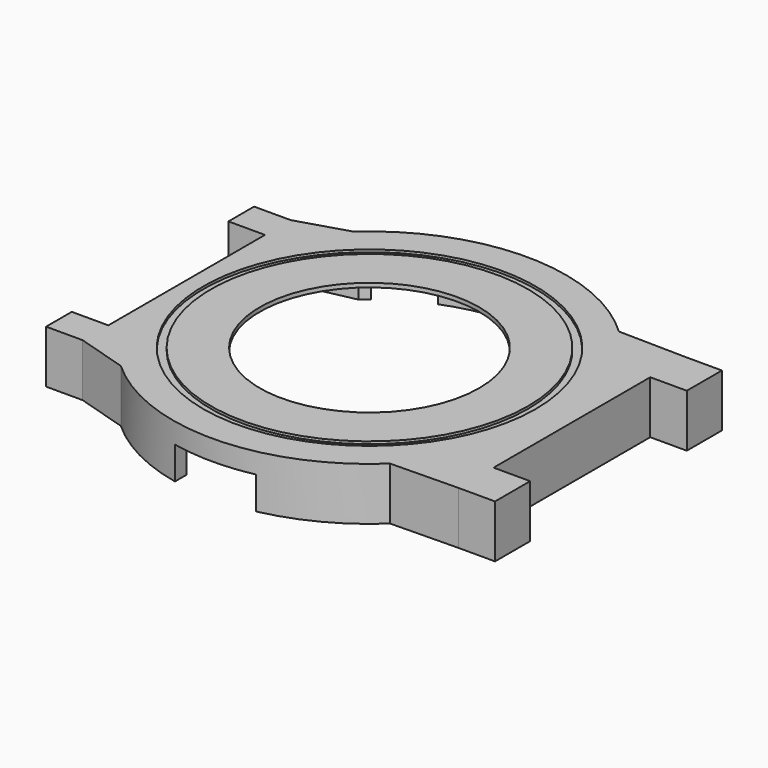
from build123d import *

# Parameters (mm, degrees)
PAD_DEPTH       = 6.5
POCKET_DEPTH    = 6
SKETCH002_R     = 13.5
POCKET001_DEPTH = 1
SKETCH003_W     = 5.4
SKETCH003_H     = 6.5
PAD001_DEPTH    = 4.5
SKETCH010_W     = 3.95
SKETCH010_H     = 6.5
PAD002_DEPTH    = 4.5
SKETCH014_R     = 20.45
SKETCH014_R_2   = 19.5
POCKET008_DEPTH = 0.3
SKETCH015_R     = 2.2
SKETCH015_R_2   = 0.975
PAD003_DEPTH    = 2
POCKET009_DEPTH = 4
POCKET010_DEPTH = 4


with BuildPart() as part:
    # Sketch → Pad (new body)
    with BuildSketch(Plane.XY):
        with BuildLine():
            Line((-22.5019915649, 16), (-22.5019915649, -16))
            Line((-22.5019915649, -16), (-16.2858834577, -17.9000000001))
            ThreePointArc((-16.2858834577, -17.9000000001), (0.2206895737, -24.1989937004), (16.6096357576, -17.5999999999))
            Line((16.6096357576, -17.5999999999), (24.9082802252, -17.45))
            Line((24.9082802252, 17.45), (24.9082802252, -17.45))
            Line((16.6096357576, 17.6), (24.9082802252, 17.45))
            ThreePointArc((16.6096357576, 17.6), (0.2206895736, 24.1989937004), (-16.2858834578, 17.9))
            Line((-22.5019915649, 16), (-16.2858834578, 17.9))
        make_face()
    extrude(amount=PAD_DEPTH)

    # Sketch001 → Pocket (cut)
    with BuildSketch(Plane.XY):
        with BuildLine():
            Line((-14.8539557021, 16.9), (-21.2122180433, 15.55))
            Line((-21.2122180433, 15.55), (-21.2122180433, -15.55))
            Line((-21.2122180433, -15.55), (-14.8539557021, -16.9))
            ThreePointArc((-14.8539557021, -16.9), (-0.0760301383, -22.4998715423), (14.739402973, -17))
            Line((14.739402973, -17), (23.6191552218, -16.4))
            Line((23.6191552218, 16.4), (23.6191552218, -16.4))
            Line((14.739402973, 17), (23.6191552218, 16.4))
            ThreePointArc((14.739402973, 17), (-0.0760301383, 22.4998715423), (-14.8539557021, 16.9))
        make_face()
    extrude(amount=POCKET_DEPTH, mode=Mode.SUBTRACT)

    # Sketch002 (on Face19 of Pocket) → Pocket001 (cut)
    with BuildSketch(Plane(origin=(0, 0, 6), x_dir=(1, 0, 0), z_dir=(0, 0, -1))):
        Circle(SKETCH002_R)
    extrude(amount=-POCKET001_DEPTH, mode=Mode.SUBTRACT)

    # Sketch003 (on Face7 of Pad) → Pad001 (join)
    with BuildSketch(Plane.YZ.offset(24.9082802252)):
        with Locations((-14.75, 3.25)):
            Rectangle(SKETCH003_W, SKETCH003_H)
        with Locations((14.75, 3.25)):
            Rectangle(SKETCH003_W, SKETCH003_H)
    extrude(amount=PAD001_DEPTH)

    # Sketch010 (on Face3 of Pad) → Pad002 (join)
    with BuildSketch(Plane(origin=(-22.5019915649, 0, 0), x_dir=(0, -1, 0), z_dir=(-1, 0, 0))):
        with Locations((-14.025, 3.25)):
            Rectangle(SKETCH010_W, SKETCH010_H)
        with Locations((14.025, 3.25)):
            Rectangle(SKETCH010_W, SKETCH010_H)
    extrude(amount=PAD002_DEPTH)

    # Sketch014 (on Face10 of Pad) → Pocket008 (cut)
    with BuildSketch(Plane.XY.offset(6.5)):
        Circle(SKETCH014_R)
        Circle(SKETCH014_R_2, mode=Mode.SUBTRACT)
    extrude(amount=-POCKET008_DEPTH, mode=Mode.SUBTRACT)

    # Sketch015 (on Face19 of Pocket) → Pad003 (join)
    with BuildSketch(Plane(origin=(0, 0, 6), x_dir=(1, 0, 0), z_dir=(0, 0, -1))):
        with Locations((-18.42, 13.32)):
            Circle(SKETCH015_R)
        with Locations((-18.42, 13.32)):
            Circle(SKETCH015_R_2, mode=Mode.SUBTRACT)
        with Locations((7.27, 18.56)):
            Circle(SKETCH015_R)
        with Locations((7.27, 18.56)):
            Circle(SKETCH015_R_2, mode=Mode.SUBTRACT)
        with Locations((5.37, -19.79)):
            Circle(SKETCH015_R)
        with Locations((5.37, -19.79)):
            Circle(SKETCH015_R_2, mode=Mode.SUBTRACT)
        with Locations((-18.42, -13.32)):
            Circle(SKETCH015_R)
        with Locations((-18.42, -13.32)):
            Circle(SKETCH015_R_2, mode=Mode.SUBTRACT)
    extrude(amount=PAD003_DEPTH)

    # Sketch016 → Pocket009 (cut)
    with BuildSketch(Plane(origin=(0, 0, 0), x_dir=(-1, 0, 0), z_dir=(0, 0, 1))):
        with BuildLine():
            Line((-5, 23.6778377391), (-5, 21.9374109685))
            ThreePointArc((5, 21.9374109685), (0, 22.5), (-5, 21.9374109685))
            Line((5, 23.6778377391), (5, 21.9374109685))
            ThreePointArc((5, 23.6778377391), (0, 24.2), (-5, 23.6778377391))
        make_face()
    extrude(amount=POCKET009_DEPTH, mode=Mode.SUBTRACT)

    # Sketch017 → Pocket010 (cut)
    with BuildSketch(Plane(origin=(0, 0, 0), x_dir=(-1, 0, 0), z_dir=(0, 0, 1))):
        with BuildLine():
            Line((-3.499984119, -22.2261132717), (-3.5, -23.9455632634))
            ThreePointArc((-3.5, -23.9455632634), (0, -24.2000019575), (3.5, -23.9455632634))
            Line((3.5000158811, -22.2261082701), (3.5, -23.9455632634))
            ThreePointArc((-3.499984119, -22.2261132717), (1.60767e-05, -22.5), (3.5000158811, -22.2261082701))
        make_face()
        with BuildLine():
            ThreePointArc((-13.9498796389, -17.6536358312), (-11.25, -19.4855715851), (-8.3135572795, -20.9077680626))
            Line((-8.3135572795, -20.9077680626), (-8.9416927184, -22.487466094))
            ThreePointArc((-15.0038705449, -18.987466094), (-12.1, -20.9578147716), (-8.9416927184, -22.487466094))
            Line((-13.9498796389, -17.6536358312), (-15.0038705449, -18.987466094))
        make_face()
        with BuildLine():
            ThreePointArc((8.3135572795, -20.9077680626), (11.25, -19.4855715851), (13.9498796389, -17.6536358312))
            Line((13.9498796389, -17.6536358312), (15.0038705449, -18.987466094))
            ThreePointArc((8.9416927184, -22.487466094), (12.1, -20.9578147716), (15.0038705449, -18.987466094))
            Line((8.3135572795, -20.9077680626), (8.9416927184, -22.487466094))
        make_face()
    extrude(amount=POCKET010_DEPTH, mode=Mode.SUBTRACT)


solid = part.part
